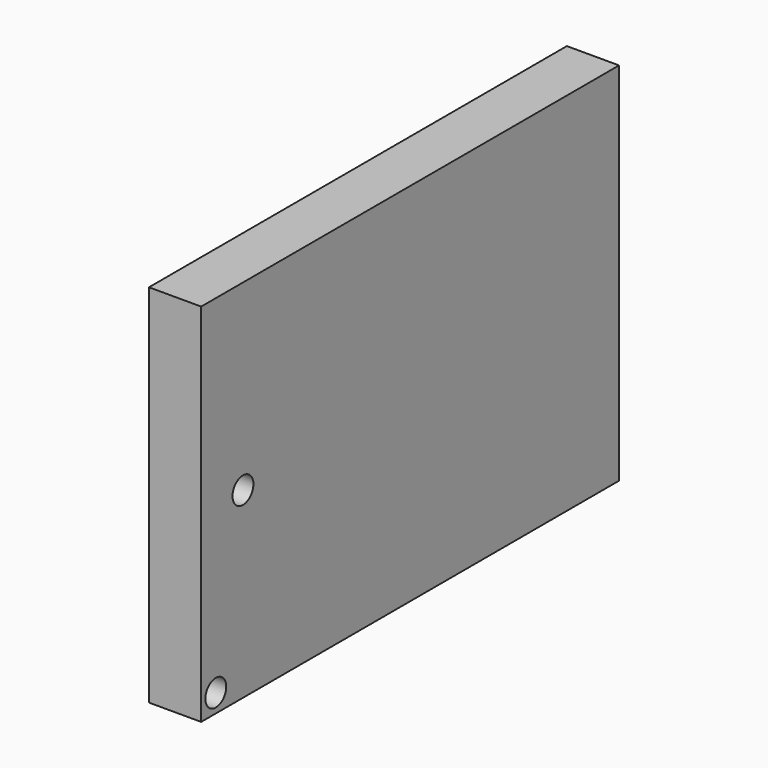
from build123d import *

# Parameters (mm, degrees)
F0_W     = 254
F0_H     = 177.8
F0_R     = 6.35
F1_DEPTH = 25.4


with BuildPart() as f1:
    # F0 (on Right) → F1 (new body)
    with BuildSketch(Plane.YZ):
        Rectangle(F0_W, F0_H)
        with Locations((-118.11, -80.01)):
            Circle(F0_R, mode=Mode.SUBTRACT)
        with Locations((-101.6, 0)):
            Circle(F0_R, mode=Mode.SUBTRACT)
    extrude(amount=F1_DEPTH)


solid = f1.part
